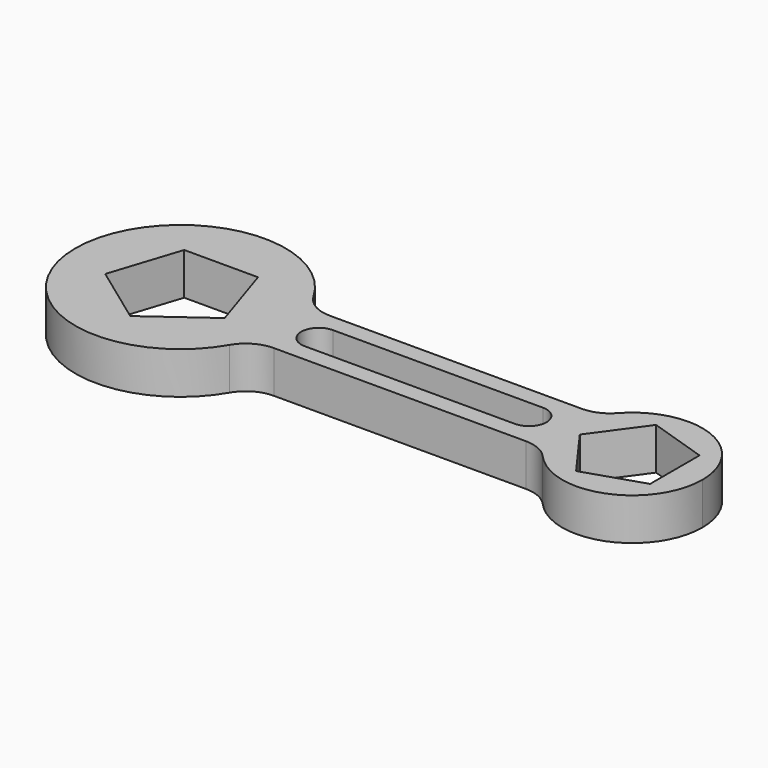
from build123d import *

# Parameters (mm, degrees)
F1_DEPTH = 12
F3_DEPTH = 25
F5_DEPTH = 25
F6_R     = 10


with BuildPart() as f1:
    # F0 (on Top) → F1 (new body)
    with BuildSketch(Plane.XY):
        with BuildLine():
            ThreePointArc((-36.2157287525, -10), (-34.9320432104, -5.0730593618), (-34.5, 0))
            ThreePointArc((-34.5, 0), (-34.9320432104, 5.0730593618), (-36.2157287525, 10))
            Line((-36.2157287525, 10), (-64.5, 10))
            Line((-64.5, 10), (-64.5, -10))
            Line((-64.5, -10), (-36.2157287525, -10))
        make_face()
        with BuildLine():
            ThreePointArc((-36.2157287525, 10), (-34.9320432104, 5.0730593618), (-34.5, 0))
            ThreePointArc((-34.5, 0), (-34.9320432104, -5.0730593618), (-36.2157287525, -10))
            Line((-36.2157287525, -10), (47.1794919243, -10))
            ThreePointArc((47.1794919243, -10), (44.5, 0), (47.1794919243, 10))
            Line((47.1794919243, 10), (-36.2157287525, 10))
        make_face()
        with BuildLine():
            Line((-64.5, 10), (-36.2157287525, 10))
            ThreePointArc((-36.2157287525, 10), (-94.5, 0), (-36.2157287525, -10))
            Line((-36.2157287525, -10), (-64.5, -10))
            Line((-64.5, -10), (-64.5, 10))
        make_face()
        with BuildLine():
            Line((64.5, 10), (47.1794919243, 10))
            ThreePointArc((47.1794919243, 10), (44.5, 0), (47.1794919243, -10))
            Line((47.1794919243, -10), (64.5, -10))
            Line((64.5, -10), (64.5, 10))
        make_face()
        with BuildLine():
            ThreePointArc((84.5, 0), (69.6763809021, 19.3185165258), (47.1794919243, 10))
            Line((47.1794919243, 10), (64.5, 10))
            Line((64.5, 10), (64.5, -10))
            Line((64.5, -10), (47.1794919243, -10))
            ThreePointArc((47.1794919243, -10), (69.6763809021, -19.3185165258), (84.5, 0))
        make_face()
    extrude(amount=F1_DEPTH)

    # F2 (on face) → F3 (cut)
    with BuildSketch(Plane.XY.offset(12)):
        Polygon((-81.5466707612, -5.5387990855), (-64.5, -17.9239303544), (-47.4533292388, -5.5387990855), (-53.9645780746, 14.5007642627), (-75.0354219254, 14.5007642627), align=None)
        Polygon((59.8647450844, -14.2658477444), (76.6352549156, -8.8167787844), (76.6352549156, 8.8167787844), (59.8647450844, 14.2658477444), (49.5, 0), align=None)
    extrude(amount=-F3_DEPTH, mode=Mode.SUBTRACT)

    # F4 (on face) → F5 (cut)
    with BuildSketch(Plane.XY.offset(12)):
        with BuildLine():
            Line((-25, -5), (-25, 5))
            ThreePointArc((-25, 5), (-30, 0), (-25, -5))
        make_face()
        with BuildLine():
            Line((35, 5), (-25, 5))
            ThreePointArc((-25, 5), (-21.4644660941, 3.5355339059), (-20, 0))
            ThreePointArc((-20, 0), (-21.4644660941, -3.5355339059), (-25, -5))
            Line((-25, -5), (35, -5))
            ThreePointArc((35, -5), (30, 0), (35, 5))
        make_face()
        with BuildLine():
            ThreePointArc((-20, 0), (-21.4644660941, 3.5355339059), (-25, 5))
            Line((-25, 5), (-25, -5))
            ThreePointArc((-25, -5), (-21.4644660941, -3.5355339059), (-20, 0))
        make_face()
        with BuildLine():
            Line((35, -5), (35, 5))
            ThreePointArc((35, 5), (30, 0), (35, -5))
        make_face()
        with BuildLine():
            ThreePointArc((40, 0), (38.5355339059, 3.5355339059), (35, 5))
            Line((35, 5), (35, -5))
            ThreePointArc((35, -5), (38.5355339059, -3.5355339059), (40, 0))
        make_face()
    extrude(amount=-F5_DEPTH, mode=Mode.SUBTRACT)

    # F6
    f6_edges = [f1.edges().sort_by_distance(p)[0] for p in [
        (-36.215729, 10, 6),
        (-36.215729, -10, 6),
        (47.179492, -10, 6),
        (47.179492, 10, 6),
    ]]
    fillet(f6_edges, radius=F6_R)


solid = f1.part
